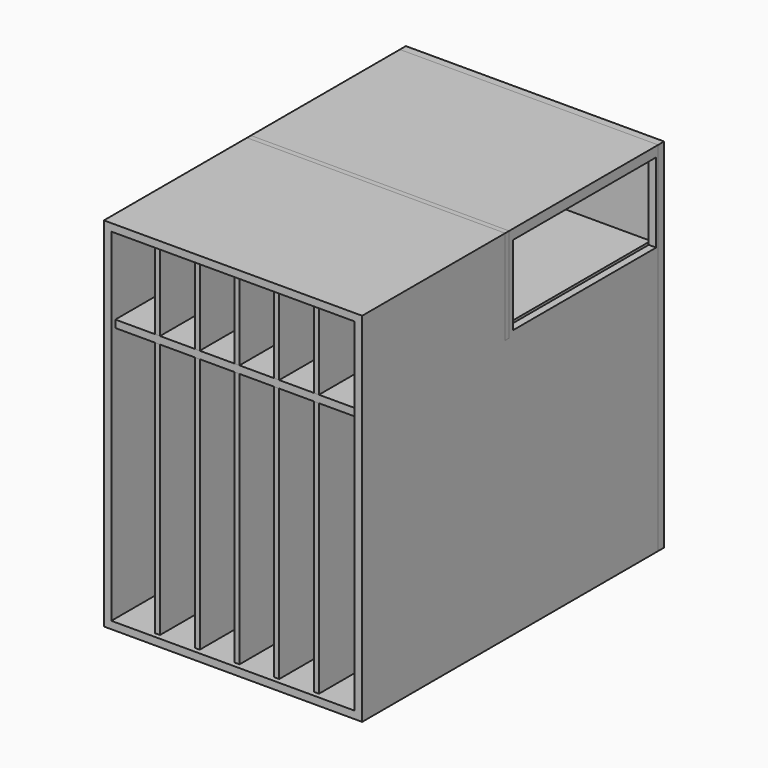
from build123d import *

# Parameters (mm, degrees)
F0_W      = 660.4
F0_H      = 914.4
F0_W_2    = 622.3
F0_H_2    = 876.3
F1_DEPTH  = 965.2
F2_W      = 660.4
F2_H      = 914.4
F3_DEPTH  = 19.05
F4_W      = 457.2
F4_H      = 203.2
F5_DEPTH  = 726.44
F6_W      = 622.3
F6_H      = 19.05
F7_DEPTH  = 952.5
F8_W      = 12.7
F8_H      = 241.3
F9_DEPTH  = 660.4
F10_W     = 12.7
F10_H     = 203.2
F11_DEPTH = 444.5
F12_W     = 12.7
F12_H     = 654.05
F13_DEPTH = 933.45


with BuildPart() as f1:
    # F0 (on Front) → F1 (new body)
    with BuildSketch(Plane.XZ):
        with Locations((330.2, -457.2)):
            Rectangle(F0_W, F0_H)
        with Locations((330.2, -457.2)):
            Rectangle(F0_W_2, F0_H_2, mode=Mode.SUBTRACT)
    extrude(amount=F1_DEPTH)

    # F4 (on face) → F5 (cut)
    with BuildSketch(Plane.YZ.offset(660.4)):
        with Locations((-254, -127)):
            Rectangle(F4_W, F4_H)
    extrude(amount=-F5_DEPTH, mode=Mode.SUBTRACT)


with BuildPart() as f3:
    # F2 (on Front) → F3 (new body)
    with BuildSketch(Plane.XZ):
        with Locations((330.2, -457.2)):
            Rectangle(F2_W, F2_H)
    extrude(amount=F3_DEPTH)


with BuildPart() as f7:
    # F6 (on Front) → F7 (new body)
    with BuildSketch(Plane.XZ):
        with Locations((330.2, -231.775)):
            Rectangle(F6_W, F6_H)
    extrude(amount=F7_DEPTH)


with BuildPart() as f9:
    # F8 (on Right) → F9 (new body)
    with BuildSketch(Plane.YZ):
        with Locations((-501.65, -120.65)):
            Rectangle(F8_W, F8_H)
    extrude(amount=F9_DEPTH)


with BuildPart() as f11:
    # F10 (on face) → F11 (new body)
    with BuildSketch(Plane.XZ.offset(508)):
        with Locations((127, -120.65)):
            Rectangle(F10_W, F10_H)
        with Locations((228.6, -120.65)):
            Rectangle(F10_W, F10_H)
        with Locations((330.2, -120.65)):
            Rectangle(F10_W, F10_H)
        with Locations((431.8, -120.65)):
            Rectangle(F10_W, F10_H)
        with Locations((533.4, -120.65)):
            Rectangle(F10_W, F10_H)
    extrude(amount=F11_DEPTH)


with BuildPart() as f13:
    # F12 (on face) → F13 (new body)
    with BuildSketch(Plane.XZ.offset(19.05)):
        with Locations((228.6, -568.325)):
            Rectangle(F12_W, F12_H)
        with Locations((330.2, -568.325)):
            Rectangle(F12_W, F12_H)
        with Locations((431.8, -568.325)):
            Rectangle(F12_W, F12_H)
        with Locations((533.4, -568.325)):
            Rectangle(F12_W, F12_H)
        with Locations((127, -568.325)):
            Rectangle(F12_W, F12_H)
    extrude(amount=F13_DEPTH)


solid = Compound([f1.part, f3.part, f7.part, f9.part, f11.part, f13.part])
